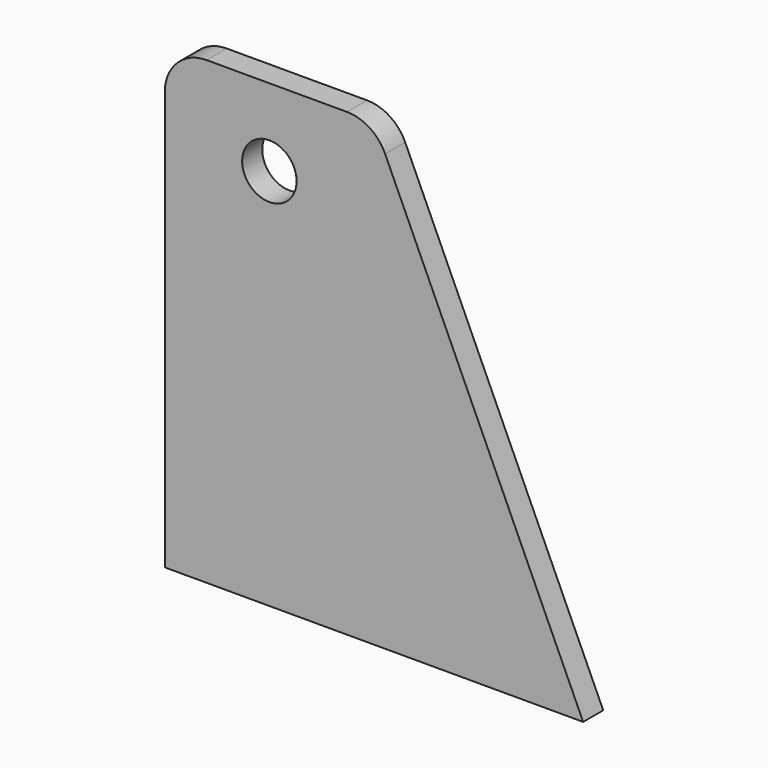
from build123d import *

# Parameters (mm, degrees)
F0_R     = 3.25
F1_DEPTH = 3


with BuildPart() as f1:
    # F0 (on Front) → F1 (new body)
    with BuildSketch(Plane.XZ):
        with BuildLine():
            Line((9.280434, 27.5), (7.5, 27.5))
            Line((7.5, 27.5), (-7.5, 27.5))
            ThreePointArc((-7.5, 27.5), (-11.035534, 26.035534), (-12.5, 22.5))
            Line((-12.5, 22.5), (-12.5, -27.5))
            Line((-12.5, -27.5), (12.5, -27.5))
            Line((12.5, -27.5), (37.5, -27.5))
            Line((37.5, -27.5), (13.832266, 24.569015))
            ThreePointArc((13.832266, 24.569015), (11.987362, 26.703872), (9.280434, 27.5))
        make_face()
        with Locations((0, 18.25)):
            Circle(F0_R, mode=Mode.SUBTRACT)
    extrude(amount=F1_DEPTH)


solid = f1.part
